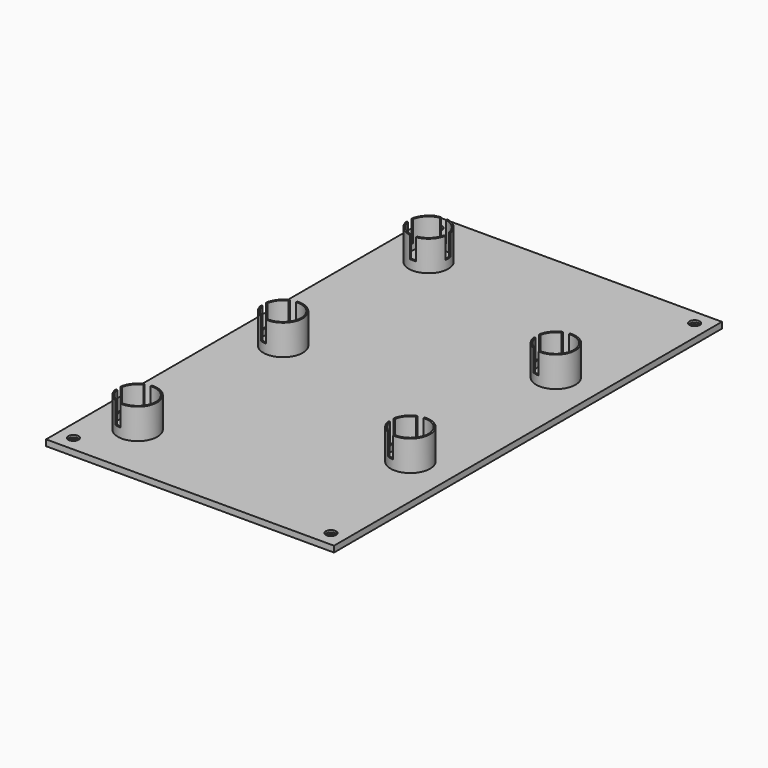
from build123d import *

# Parameters (mm, degrees)
SKETCH_W            = 95
SKETCH_H            = 160
PAD_DEPTH           = 1
SKETCH001_R         = 11.5
POCKET_DEPTH        = 1
SKETCH002_W         = 95
SKETCH002_H         = 160
PAD001_DEPTH        = 1
SKETCH003_R         = 6.5
PAD002_DEPTH        = 10
SKETCH004_R         = 6
POCKET001_DEPTH     = 9
SKETCH005_R         = 3
HOLE_DEPTH          = 25
HOLE001_D           = 3.4
HOLE001_DEPTH       = 25
HOLE001_CSINK_D     = 6
HOLE001_CSINK_ANGLE = 90
SKETCH007_W         = 2
SKETCH007_H         = 15
SKETCH007_W_2       = 15
SKETCH007_H_2       = 2
POCKET002_DEPTH     = 7


with BuildPart() as part:
    # Sketch → Pad (new body)
    with BuildSketch(Plane.XY):
        Rectangle(SKETCH_W, SKETCH_H)
    extrude(amount=PAD_DEPTH)

    # Sketch001 (on Face6 of Pad) → Pocket (cut)
    with BuildSketch(Plane.XY.offset(1)):
        with Locations((-32.5, 59)):
            Circle(SKETCH001_R)
        with Locations((-32.5, -1)):
            Circle(SKETCH001_R)
        with Locations((-32.5, -61)):
            Circle(SKETCH001_R)
        with Locations((33.5, 29)):
            Circle(SKETCH001_R)
        with Locations((33.5, -31)):
            Circle(SKETCH001_R)
    extrude(amount=-POCKET_DEPTH, mode=Mode.SUBTRACT)

    # Sketch002 (on Face5 of Pocket) → Pad001 (join)
    with BuildSketch(Plane.XY.offset(1)):
        Rectangle(SKETCH002_W, SKETCH002_H)
    extrude(amount=PAD001_DEPTH)

    # Sketch003 (on Face14 of Pad001) → Pad002 (join)
    with BuildSketch(Plane.XY.offset(2)):
        with Locations((-32.5, 59)):
            Circle(SKETCH003_R)
        with Locations((-32.5, -1)):
            Circle(SKETCH003_R)
        with Locations((33.5, 29)):
            Circle(SKETCH003_R)
        with Locations((33.5, -31)):
            Circle(SKETCH003_R)
        with Locations((-32.5, -61)):
            Circle(SKETCH003_R)
    extrude(amount=PAD002_DEPTH)

    # Sketch004 (on Face30 of Pad002) → Pocket001 (cut)
    with BuildSketch(Plane.XY.offset(12)):
        with Locations((-32.5, 59)):
            Circle(SKETCH004_R)
        with Locations((33.5, 29)):
            Circle(SKETCH004_R)
        with Locations((-32.5, -1)):
            Circle(SKETCH004_R)
        with Locations((33.5, -31)):
            Circle(SKETCH004_R)
        with Locations((-32.5, -61)):
            Circle(SKETCH004_R)
    extrude(amount=-POCKET001_DEPTH, mode=Mode.SUBTRACT)

    # Sketch005 (on Face40 of Pocket001) → Hole (cut)
    with BuildSketch(Plane.XY.offset(3)):
        with Locations((-32.5, 59)):
            Circle(SKETCH005_R)
        with Locations((33.5, 29)):
            Circle(SKETCH005_R)
        with Locations((-32.5, -1)):
            Circle(SKETCH005_R)
        with Locations((33.5, -31)):
            Circle(SKETCH005_R)
        with Locations((-32.5, -61)):
            Circle(SKETCH005_R)
    extrude(amount=-HOLE_DEPTH, mode=Mode.SUBTRACT)

    # Hole001
    with Locations(Plane(origin=(0, 0, 0), x_dir=(1, 0, 0), z_dir=(0, 0, -1))):
        with Locations((-42.5, 75), (42.5, 75), (-42.5, -75), (42.5, -75)):
            CounterSinkHole(HOLE001_D / 2, HOLE001_CSINK_D / 2, depth=HOLE001_DEPTH, counter_sink_angle=HOLE001_CSINK_ANGLE)

    # Sketch007 (on Face43 of Hole001) → Pocket002 (cut)
    with BuildSketch(Plane.XY.offset(12)):
        with Locations((-32.5, 59)):
            Rectangle(SKETCH007_W, SKETCH007_H)
        with Locations((-32.5, 59)):
            Rectangle(SKETCH007_W_2, SKETCH007_H_2)
        with Locations((32, 28.999954)):
            Rectangle(SKETCH007_W, SKETCH007_H)
        with Locations((32, 28.999655)):
            Rectangle(SKETCH007_W_2, SKETCH007_H_2)
        with Locations((-34, -1)):
            Rectangle(SKETCH007_W, SKETCH007_H)
        with Locations((-34, -1.000345)):
            Rectangle(SKETCH007_W_2, SKETCH007_H_2)
        with Locations((32, -31.000046)):
            Rectangle(SKETCH007_W, SKETCH007_H)
        with Locations((32, -30.999997)):
            Rectangle(SKETCH007_W_2, SKETCH007_H_2)
        with Locations((-34, -61.000017)):
            Rectangle(SKETCH007_W, SKETCH007_H)
        with Locations((-34, -61.000345)):
            Rectangle(SKETCH007_W_2, SKETCH007_H_2)
    extrude(amount=-POCKET002_DEPTH, mode=Mode.SUBTRACT)


solid = part.part
